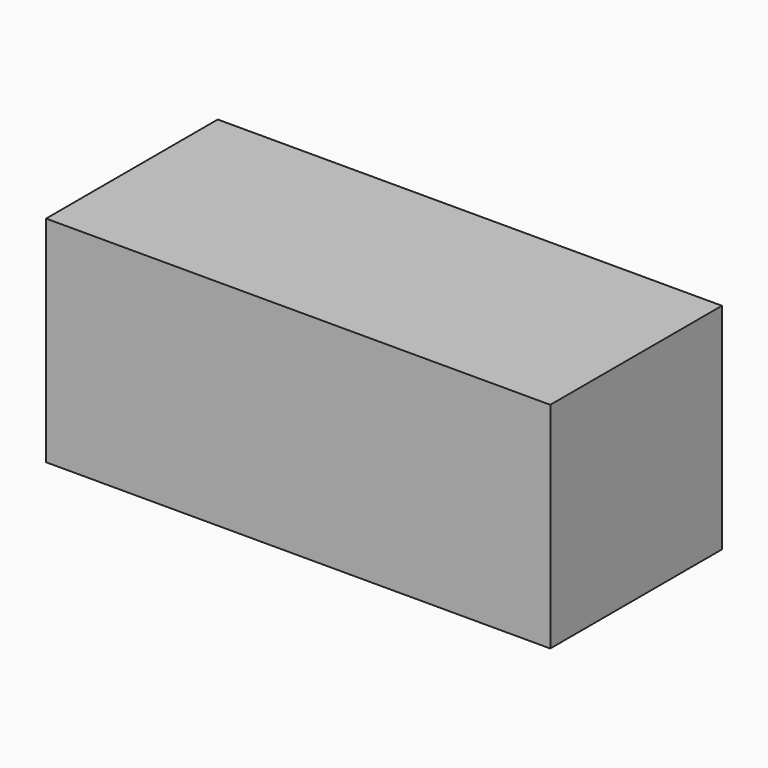
from build123d import *

# Parameters (mm, degrees)
F0_W     = 119.38
F0_H     = 50.8
F1_DEPTH = 25.4
F2_W     = 109.22
F2_H     = 41.112078
F3_DEPTH = 25.4


with BuildPart() as f1:
    # F0 (on Front) → F1 (new body, symmetric)
    with BuildSketch(Plane.XZ):
        with Locations((-7.902934, -4.342478)):
            Rectangle(F0_W, F0_H)
    extrude(amount=F1_DEPTH, both=True)

    # F2 (on face) → F3 (join)
    with BuildSketch(Plane.XZ.offset(25.4)):
        with Locations((-7.902934, -4.578517)):
            Rectangle(F2_W, F2_H)
    extrude(amount=-F3_DEPTH)


solid = f1.part
